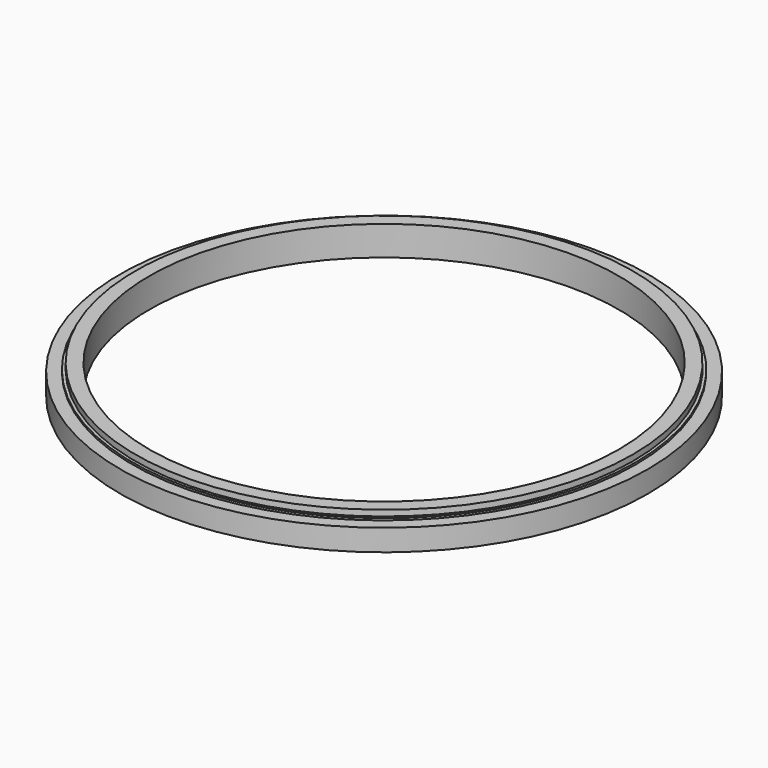
from build123d import *

# Parameters (mm, degrees)
F0_R        = 67
F0_R_2      = 59.6
F1_DEPTH    = 3.75
F2_R        = 63.875
F2_R_2      = 63.125
F3_DEPTH    = 1.5
F3_FACE_R   = 67
F3_FACE_R_2 = 63.875
F4_DEPTH    = 2


with BuildPart() as f1:
    # F0 (on Top) → F1 (new body, symmetric)
    with BuildSketch(Plane.XY):
        Circle(F0_R)
        Circle(F0_R_2, mode=Mode.SUBTRACT)
    extrude(amount=F1_DEPTH, both=True)

    # F2 (on face) → F3 (cut)
    with BuildSketch(Plane.XY.offset(3.75)):
        Circle(F2_R)
        Circle(F2_R_2, mode=Mode.SUBTRACT)
    extrude(amount=-F3_DEPTH, mode=Mode.SUBTRACT)

    # F3_face (on face) → F4 (cut)
    with BuildSketch(Plane.XY.offset(3.75)):
        Circle(F3_FACE_R)
        Circle(F3_FACE_R_2, mode=Mode.SUBTRACT)
    extrude(amount=-F4_DEPTH, mode=Mode.SUBTRACT)


solid = f1.part
